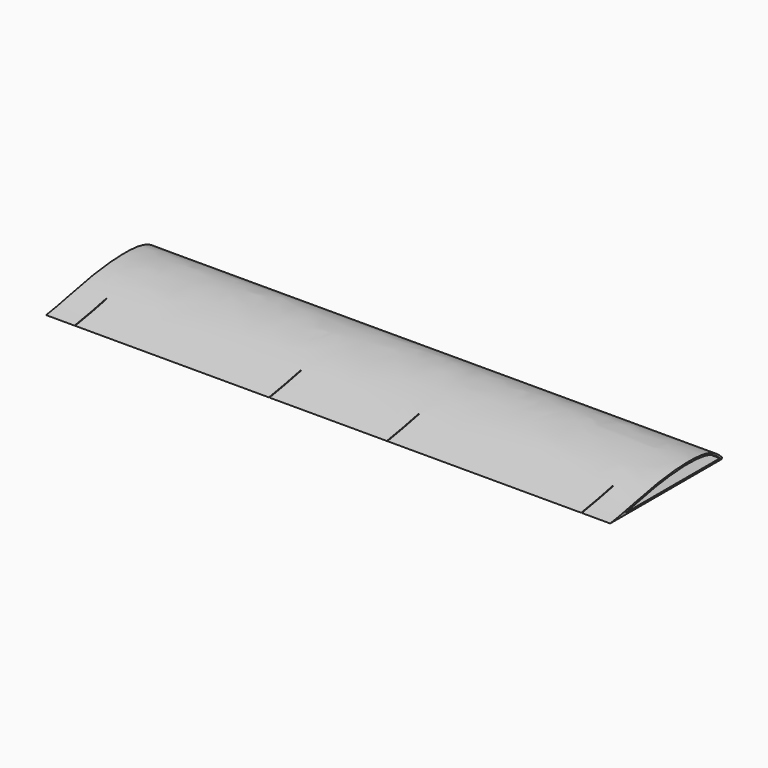
from build123d import *

# Parameters (mm, degrees)
F1_DEPTH = 200
F4_T     = -0.6
F3_W     = 0.2
F3_H     = 14
F5_DEPTH = 25
F6_W     = 0.2
F6_H     = 14
F7_DEPTH = 25
F8_R     = 0.4


with BuildPart() as f1:
    # F0 (on Right) → F1 (new body)
    with BuildSketch(Plane.YZ):
        with BuildLine():
            add(Edge.make_bspline(
                [(18.4494327754, -3.8520128001), (15.5609515421, -0.4847487874), (8.1340167717, 2.2164674432), (-12.2966120419, 0.5504568669), (-24.9624218007, -2.9072897866), (-31.5505672246, -3.8520128001)],
                knots=[0, 0, 0, 0, 0.2747109337, 0.6355042516, 1, 1, 1, 1], degree=3))
            Line((-31.5505672246, -3.8520128001), (18.4494327754, -3.8520128001))
        make_face()
    extrude(amount=F1_DEPTH)


with BuildPart() as f1_1:
    # F2: moved
    add(f1.part.moved(Location((-100, 0, 16.3))))

    # F4
    f4_openings = [f1_1.faces().sort_by_distance(p)[0] for p in [
        (100, -2.298769, 14.541602),
        (-100, -2.298769, 14.541602),
    ]]
    offset(amount=F4_T, openings=f4_openings)

    # F3 (on face) → F5 (cut)
    with BuildSketch(Plane(origin=(0, 0, 12.4479871999), x_dir=(1, 0, 0), z_dir=(0, 0, -1))):
        with Locations((89.8042006254, 24.5505672246)):
            Rectangle(F3_W, F3_H)
        with Locations((-89.8042006254, 24.5505672246)):
            Rectangle(F3_W, F3_H)
    extrude(amount=-F5_DEPTH, mode=Mode.SUBTRACT)

    # F6 (on face) → F7 (cut)
    with BuildSketch(Plane(origin=(0, 0, 12.4479871999), x_dir=(1, 0, 0), z_dir=(0, 0, -1))):
        with Locations((-20.9039503872, 24.5505672246)):
            Rectangle(F6_W, F6_H)
        with Locations((20.9039503872, 24.5505672246)):
            Rectangle(F6_W, F6_H)
    extrude(amount=-F7_DEPTH, mode=Mode.SUBTRACT)

    # F8
    f8_edges = [f1_1.edges().sort_by_distance(p)[0] for p in [
        (0, 18.449433, 12.447987),
    ]]
    fillet(f8_edges, radius=F8_R)


solid = f1_1.part
